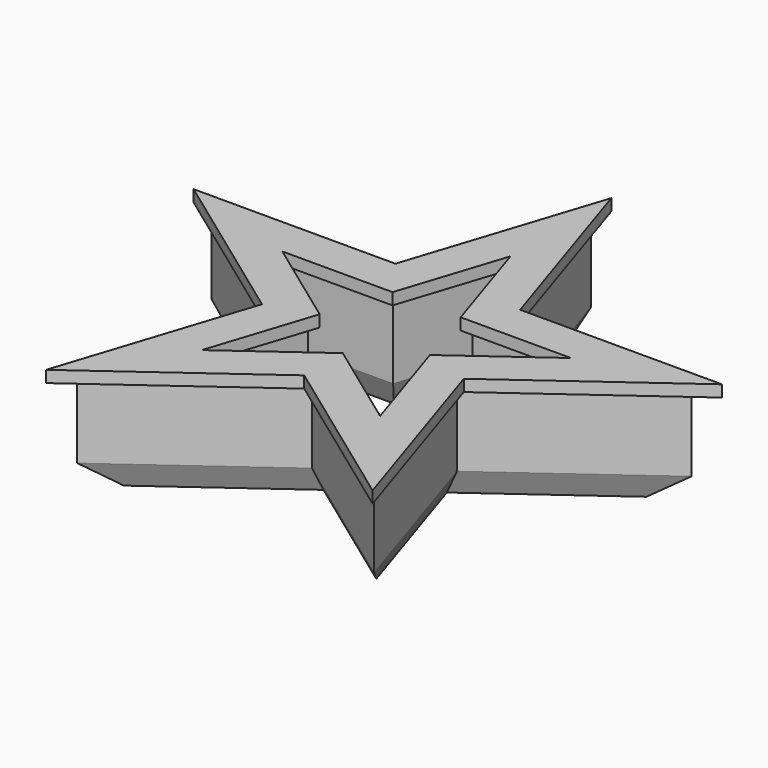
from build123d import *


with BuildPart() as f3:
    # F3: sweep along a path in F0
    with BuildLine(Plane.XY) as f3_path:
        Line((6.1897202132, 8.5194189943), (26.220075585, 8.5194189943))
        Line((26.220075585, 8.5194189943), (10.0151776859, -3.2541284914))
        Line((10.0151776859, -3.2541284914), (16.2048978991, -22.3041284914))
        Line((16.2048978991, -22.3041284914), (0, -10.5305810057))
        Line((0, -10.5305810057), (-16.2048978991, -22.3041284914))
        Line((-16.2048978991, -22.3041284914), (-10.0151776859, -3.2541284914))
        Line((-10.0151776859, -3.2541284914), (-26.220075585, 8.5194189943))
        Line((-26.220075585, 8.5194189943), (-6.1897202132, 8.5194189943))
        Line((-6.1897202132, 8.5194189943), (0, 27.5694189943))
        Line((0, 27.5694189943), (6.1897202132, 8.5194189943))
    # F2 (on plane+point) → F3 (sweep)
    with BuildSketch(Plane.YZ.offset(6.1897202132)):
        Polygon((7.0194189943, 3.2167603808), (8.5194189943, 0), (10.0194189943, 3.2167603808), (10.0194189943, 12.7), (11.0194189943, 12.7), (11.0194189943, 14.2), (8.5194189943, 14.2), (6.0194189943, 14.2), (6.0194189943, 12.7), (7.0194189943, 12.7), align=None)
    sweep(path=f3_path.line, transition=Transition.RIGHT)


solid = f3.part
